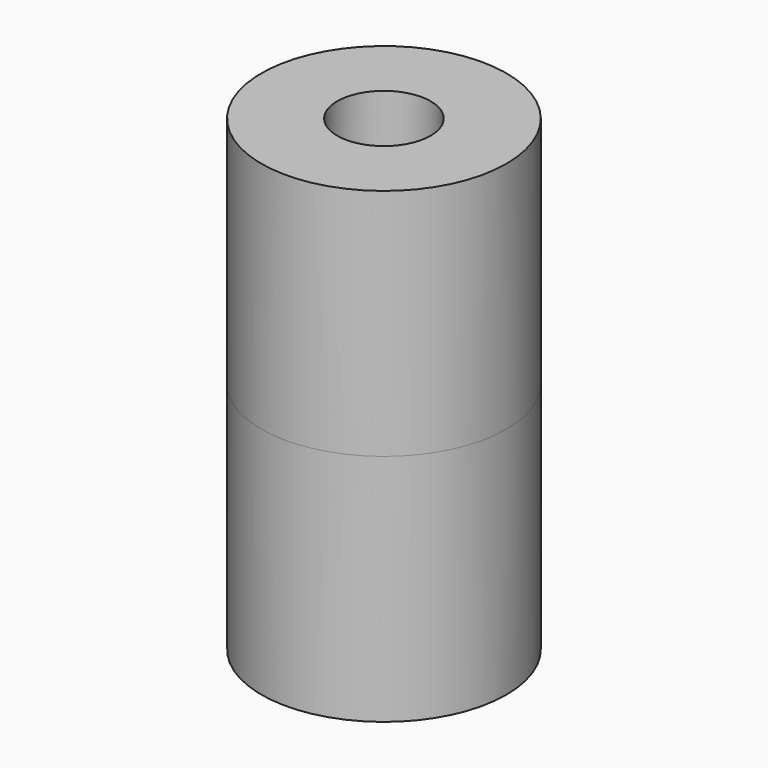
from build123d import *

# Parameters (mm, degrees)
F1_R          = 13.105
F1_R_2        = 5
F2_DEPTH      = 25
F2_DEPTH_BACK = 25
F4_W          = 3.35
F4_H          = 2.71
F4_W_2        = 2.51
F4_H_2        = 1.41
F4_H_3        = 1.44
F5_DEPTH      = 43


with BuildPart() as f2:
    # F1 (on Top) → F2 (new body, two sides)
    with BuildSketch(Plane.XY) as f2_sk:
        Circle(F1_R)
        Circle(F1_R_2, mode=Mode.SUBTRACT)
    extrude(amount=-F2_DEPTH)
    extrude(f2_sk.sketch, amount=F2_DEPTH_BACK)

    # F4 (on offset) → F5 (cut)
    with BuildSketch(Plane.XY.offset(15)):
        with Locations((-8.0100600094, -7.1172684696)):
            Rectangle(F4_W, F4_H)
        with Locations((2.2699399906, -6.4672684696)):
            Rectangle(F4_W_2, F4_H_2)
        with BuildLine():
            Line((-6.3350600094, 6.7277315304), (10.9149399906, 6.7277315304))
            ThreePointArc((10.9149399906, 6.7277315304), (2.2899399906, 10.5016391702), (-6.3350600094, 6.7277315304))
        make_face()
        with Locations((-8.0100600094, -2.8322684696)):
            Rectangle(F4_W, F4_H_3)
        Polygon((-6.3350600094, -2.1122684696), (-6.3350600094, -3.5522684696), (10.9149399906, -3.5522684696), (10.9149399906, 6.7277315304), (-6.3350600094, 6.7277315304), align=None)
        Polygon((-6.3350600094, -3.5522684696), (-9.6850600094, -3.5522684696), (-9.6850600094, -5.7622684696), (-6.3350600094, -5.7622684696), (1.0149399906, -5.7622684696), (3.5249399906, -5.7622684696), (10.9149399906, -5.7622684696), (10.9149399906, -3.5522684696), align=None)
    extrude(amount=-F5_DEPTH, mode=Mode.SUBTRACT)


solid = f2.part
